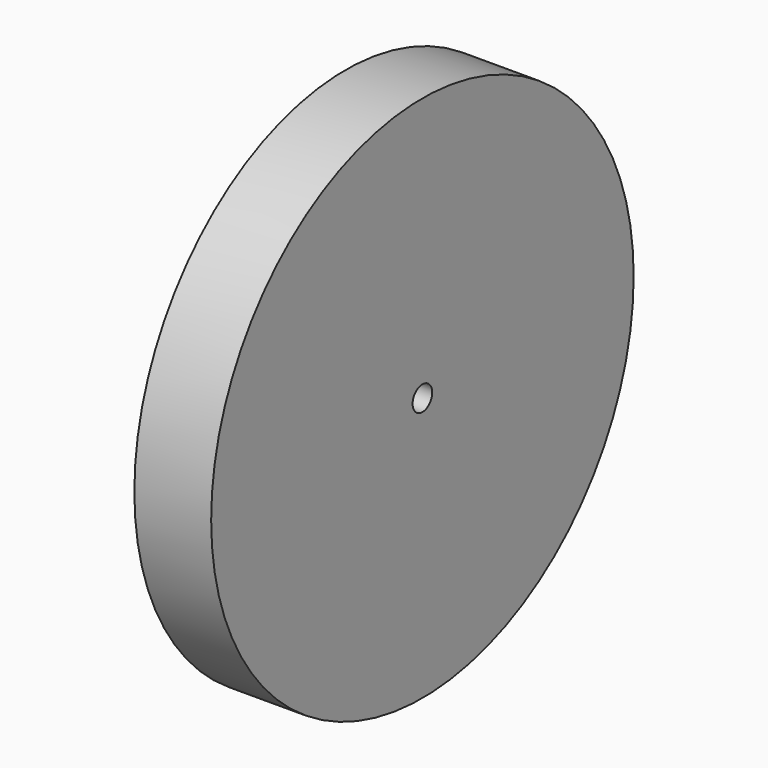
from build123d import *

# Parameters (mm, degrees)
F0_R     = 3.375
F1_DEPTH = 10
F2_R     = 27.5
F2_R_2   = 3.375
F3_DEPTH = 8
F4_R     = 1.275
F5_DEPTH = 25.4


with BuildPart() as f1:
    # F0 (on Right) → F1 (new body)
    with BuildSketch(Plane.YZ):
        Circle(F0_R)
    extrude(amount=F1_DEPTH)

    # F2 (on face) → F3 (join)
    with BuildSketch(Plane.YZ.offset(10)):
        Circle(F2_R)
        Circle(F2_R_2, mode=Mode.SUBTRACT)
        Circle(F2_R_2)
    extrude(amount=F3_DEPTH)

    # F4 (on face) → F5 (cut)
    with BuildSketch(Plane(origin=(0, 0, 0), x_dir=(0, -1, 0), z_dir=(-1, 0, 0))):
        Circle(F4_R)
    extrude(amount=-F5_DEPTH, mode=Mode.SUBTRACT)


solid = f1.part
